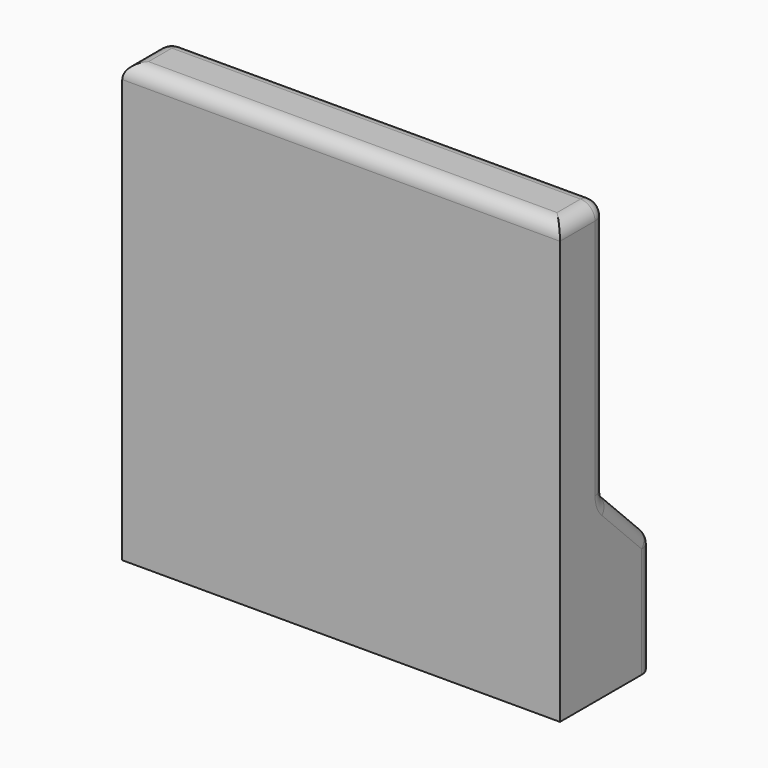
from build123d import *

# Parameters (mm, degrees)
F3_DEPTH = 75
F4_T     = -3
F5_R     = 5


with BuildPart() as f3:
    # F2 (on Right) → F3 (new body, symmetric)
    with BuildSketch(Plane.YZ):
        Polygon((0, 75), (0, 0), (0, -75), (40, -75), (40, -35), (20, -15), (20, 75), align=None)
    extrude(amount=F3_DEPTH, both=True)

    # F4
    f4_openings = [f3.faces().sort_by_distance(p)[0] for p in [
        (0, 20, -75),
    ]]
    offset(amount=F4_T, openings=f4_openings, kind=Kind.INTERSECTION)

    # F5
    f5_edges = [f3.edges().sort_by_distance(p)[0] for p in [
        (72, 3, -1.5),
        (-72, 3, -1.5),
        (-75, 10, 75),
        (-75, 20, 30),
        (-75, 30, -25),
        (-75, 40, -55),
        (0, 20, 75),
        (0, 0, 75),
        (75, 10, 75),
        (75, 20, 30),
        (75, 30, -25),
        (75, 40, -55),
        (0, 40, -35),
        (0, 20, -15),
    ]]
    fillet(f5_edges, radius=F5_R)


solid = f3.part
